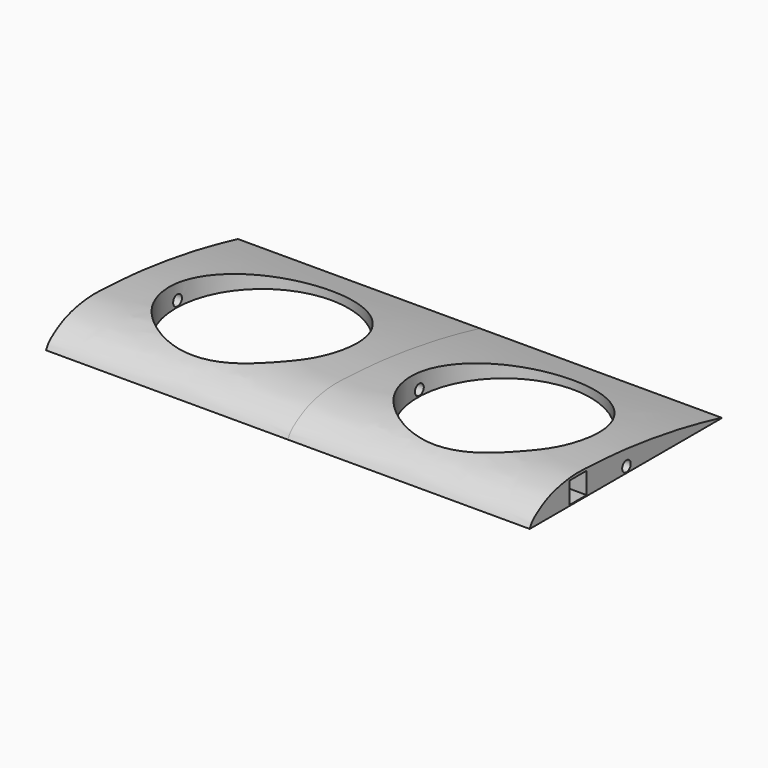
from build123d import *

# Parameters (mm, degrees)
F1_DEPTH = 70
F2_R     = 25
F3_DEPTH = 72.1
F4_W     = 6.2
F4_H     = 6.2
F5_DEPTH = 6
F6_R     = 1.55
F7_DEPTH = 77.3


with BuildPart() as f1:
    # F0 (on Right) → F1 (new body)
    with BuildSketch(Plane.YZ):
        with BuildLine():
            add(Edge.make_bspline(
                [(-45.3591383994, 32.103702426), (-45.0966863192, 32.6607785037), (-44.4660736082, 33.9993057329), (-41.0486395915, 36.3004592483), (-37.2186294202, 38.2261823582), (-29.568104066, 39.6772911596), (-21.8956854277, 39.124264393), (-10.8497397533, 38.5478221436), (4.4409795688, 36.4022293949), (15.0874011175, 34.3343670991), (21.2353436843, 32.8979539072), (24.07472083, 32.2312661607)],
                knots=[0, 0, 0, 0, 0.0570111878, 0.1369849296, 0.2220893944, 0.3330494993, 0.445460883, 0.5803993408, 0.7404874129, 0.8759531867, 0.992563647, 0.992563647, 0.992563647, 0.992563647], degree=3))
            Line((-45.3591383994, 32.103702426), (24.1805057436, 32.103702426))
            Line((24.1805057436, 32.103702426), (24.07472083, 32.2312661607))
        make_face()
    extrude(amount=F1_DEPTH)

    # F2 (on Top) → F3 (cut)
    with BuildSketch(Plane.XY):
        with Locations((35, -10.92527917)):
            Circle(F2_R)
    extrude(amount=F3_DEPTH, mode=Mode.SUBTRACT)

    # F4 (on face) → F5 (cut)
    with BuildSketch(Plane.YZ.offset(70)):
        with Locations((-27.8818023294, 35.4819565177)):
            Rectangle(F4_W, F4_H)
    extrude(amount=-F5_DEPTH, mode=Mode.SUBTRACT)

    # F6 (on Right) → F7 (cut)
    with BuildSketch(Plane.YZ):
        with Locations((-10.3591383994, 33.8669419289)):
            Circle(F6_R)
    extrude(amount=F7_DEPTH, mode=Mode.SUBTRACT)

    # F8: F1 across plane


with BuildPart() as f1_1:
    add(f1.part)
    add(f1.part.mirror(Plane.YZ))


solid = f1_1.part
